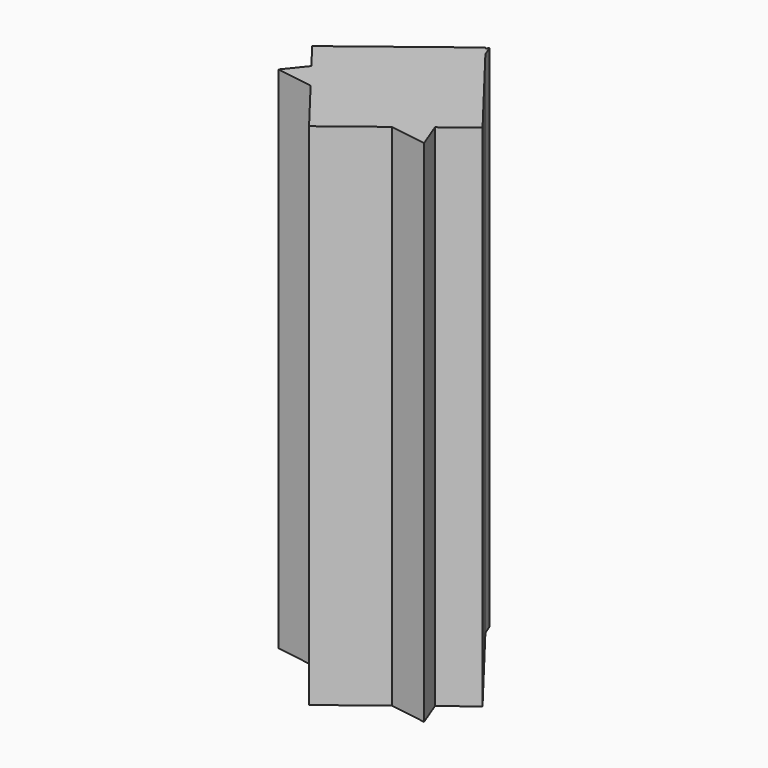
from build123d import *

# Parameters (mm, degrees)
F2_DEPTH = 254
F3_DEPTH = 254


with BuildPart() as f2:
    # F0 (on Top) → F2 (new body)
    with BuildSketch(Plane.XY):
        Polygon((-47.364753, 6.120985), (-6.120985, -47.364753), (47.364753, -6.120985), (6.120985, 47.364753), align=None)
    extrude(amount=F2_DEPTH)

    # F1 (on Top) → F3 (join)
    with BuildSketch(Plane.XY):
        Polygon((37.73475, -30.536905), (7.578361, 47.947705), (-45.313111, -17.410799), align=None)
    extrude(amount=F3_DEPTH)


solid = f2.part
